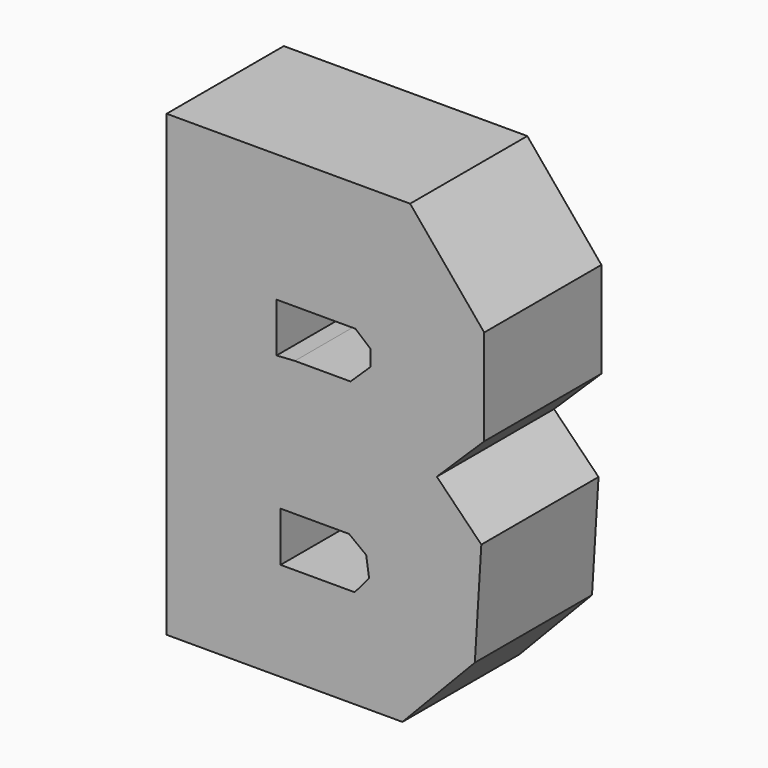
from build123d import *

# Parameters (mm, degrees)
F1_DEPTH = 25.4


with BuildPart() as f1:
    # F0 (on Front) → F1 (new body)
    with BuildSketch(Plane.XZ):
        Polygon((18.654089, -35.764012), (31.213023, -22.630597), (32.340335, -4.244869), (24.623046, 3.616267), (32.838091, 11.68099), (32.838091, 28.297821), (19.991761, 43.784931), (-22.233795, 43.784931), (-22.233795, -35.764012), align=None)
        Polygon((12.371853, -12.321224), (12.876714, -15.691575), (10.382351, -18.658681), (0.69035, -18.658681), (-2.471038, -18.658681), (-2.471038, -10.069466), (9.40208, -10.069466), align=None, mode=Mode.SUBTRACT)
        Polygon((9.660376, 13.281876), (0, 13.281876), (-3.167632, 13.081967), (-3.167632, 21.608453), (10.502888, 21.608453), (13.136432, 19.372724), (13.136432, 16.643634), align=None, mode=Mode.SUBTRACT)
    extrude(amount=F1_DEPTH)


solid = f1.part
